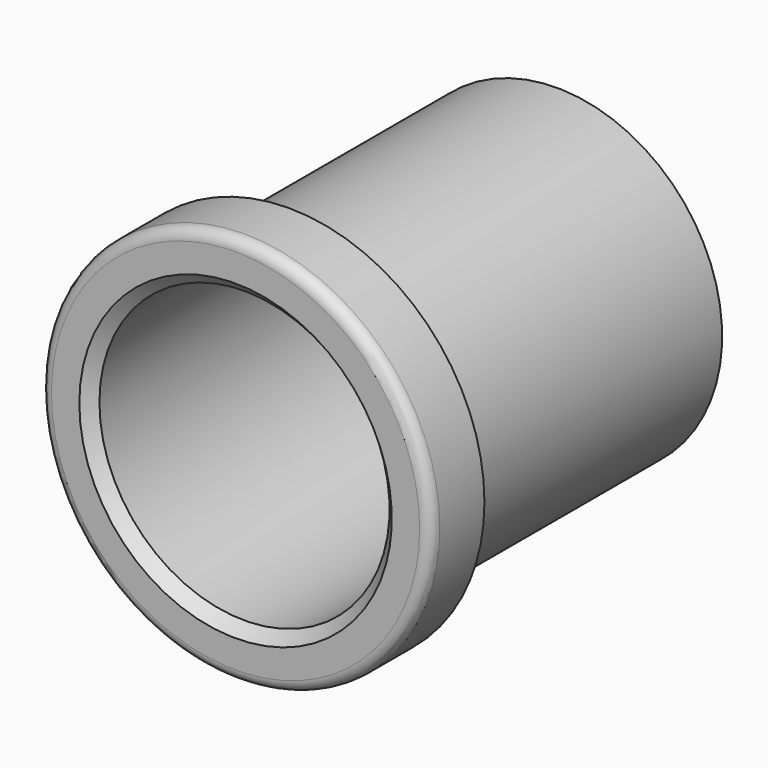
from build123d import *

# Parameters (mm, degrees)
F0_R           = 17.5
F1_DEPTH       = 6
F2_R           = 1
F3_R           = 14.8
F4_DEPTH       = 30
F6_D           = 26
F6_DEPTH       = 60
F6_CSINK_D     = 28
F6_CSINK_ANGLE = 90


with BuildPart() as f1:
    # F0 (on Front) → F1 (new body)
    with BuildSketch(Plane.XZ):
        Circle(F0_R)
    extrude(amount=F1_DEPTH)

    # F2
    f2_edges = [f1.edges().sort_by_distance(p)[0] for p in [
        (-17.5, -6, 0),
    ]]
    fillet(f2_edges, radius=F2_R)

    # F3 (on face) → F4 (join)
    with BuildSketch(Plane(origin=(0, 0, 0), x_dir=(-1, 0, 0), z_dir=(0, 1, 0))):
        Circle(F3_R)
    extrude(amount=F4_DEPTH)

    # F6
    with Locations(Plane.XZ.offset(6)):
        with Locations((0, 0)):
            CounterSinkHole(F6_D / 2, F6_CSINK_D / 2, depth=F6_DEPTH, counter_sink_angle=F6_CSINK_ANGLE)


solid = f1.part
